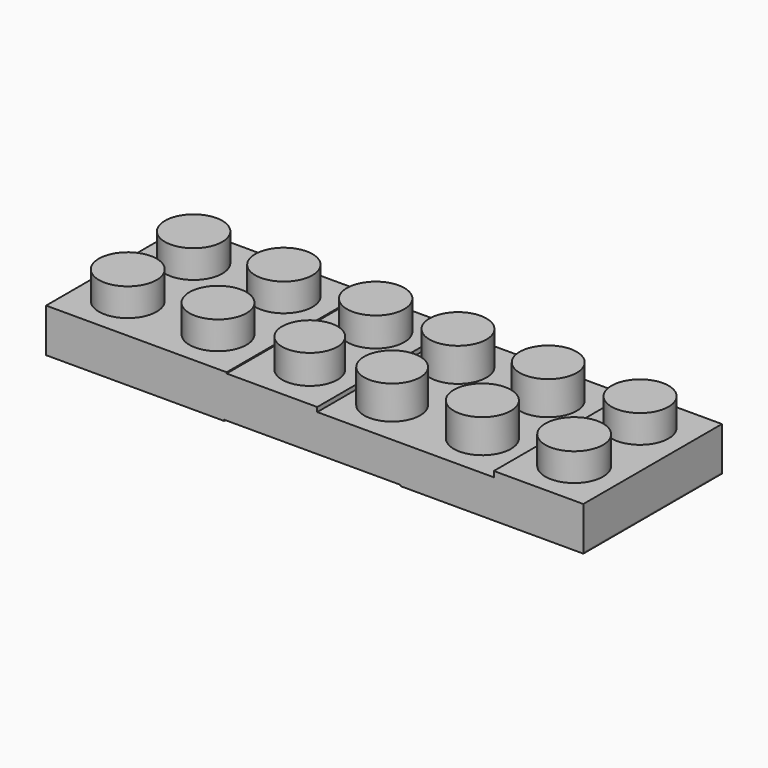
from build123d import *

# Parameters (mm, degrees)
F0_W     = 48.063562
F0_H     = 3.309766
F1_DEPTH = 15.5
F2_R     = 2.565149
F2_R_2   = 2.584627
F2_R_3   = 2.54946
F2_R_4   = 2.565151
F2_R_5   = 2.47358
F2_R_6   = 2.509808
F2_R_7   = 2.553392
F2_R_8   = 2.553391
F3_DEPTH = 3
F4_W     = 16.371909
F4_H     = 15.5
F4_W_2   = 15.93889
F5_DEPTH = 0.1
F6_W     = 16.152791
F6_H     = 15.5
F6_W_2   = 8.003426
F7_DEPTH = 0.5
F8_W     = 8.105978
F8_H     = 15.5
F9_DEPTH = 0.4


with BuildPart() as f1:
    # F0 (on Front) → F1 (new body)
    with BuildSketch(Plane.XZ):
        with Locations((-1.726834, 1.654883)):
            Rectangle(F0_W, F0_H)
    extrude(amount=F1_DEPTH)

    # F2 (on face) → F3 (join)
    with BuildSketch(Plane.XY.offset(3.309766)):
        with Locations((-21.72962, -4.037504)):
            Circle(F2_R)
        with Locations((-21.72962, -11.402613)):
            Circle(F2_R_2)
        with Locations((-13.656328, -11.402613)):
            Circle(F2_R_3)
        with Locations((-13.656328, -4.037504)):
            Circle(F2_R)
        with Locations((-5.441401, -4.037504)):
            Circle(F2_R_4)
        with Locations((-5.441401, -11.402613)):
            Circle(F2_R_5)
        with Locations((1.923707, -11.402613)):
            Circle(F2_R_6)
        with Locations((1.923707, -4.037504)):
            Circle(F2_R_3)
        with Locations((9.997, -4.037504)):
            Circle(F2_R_3)
        with Locations((9.997, -11.402613)):
            Circle(F2_R_7)
        with Locations((18.211929, -11.402613)):
            Circle(F2_R_2)
        with Locations((18.211929, -4.037504)):
            Circle(F2_R_8)
    extrude(amount=F3_DEPTH)

    # F4 (on face) → F5 (join)
    with BuildSketch(Plane(origin=(0, 0, 0), x_dir=(1, 0, 0), z_dir=(0, 0, -1))):
        with Locations((14.118992, 7.75)):
            Rectangle(F4_W, F4_H)
        with Locations((-17.78917, 7.75)):
            Rectangle(F4_W_2, F4_H)
    extrude(amount=F5_DEPTH)

    # F6 (on face) → F7 (join)
    with BuildSketch(Plane.XY.offset(3.309766)):
        with Locations((-17.682219, -7.75)):
            Rectangle(F6_W, F6_H)
        with Locations((18.303234, -7.75)):
            Rectangle(F6_W_2, F6_H)
    extrude(amount=F7_DEPTH)

    # F8 (on face) → F9 (join)
    with BuildSketch(Plane.XY.offset(3.309766)):
        with Locations((-5.552835, -7.75)):
            Rectangle(F8_W, F8_H)
    extrude(amount=F9_DEPTH)


solid = f1.part
